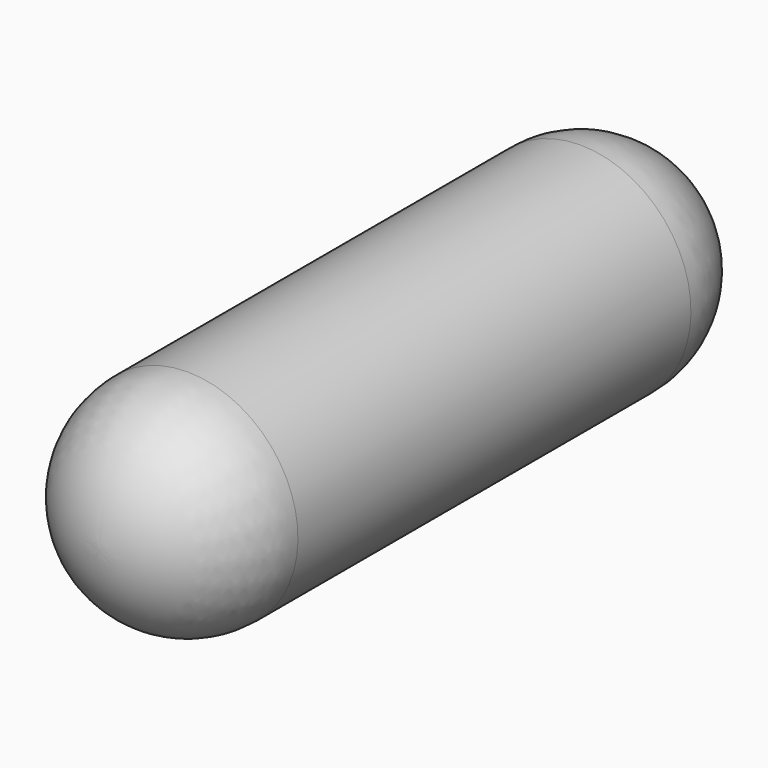
from build123d import *


with BuildPart() as f1:
    # F0 (on Right) → F1 (revolve)
    with BuildSketch(Plane.YZ):
        with BuildLine():
            Line((50, 22.5), (-50, 22.5))
            ThreePointArc((-50, 22.5), (-65.909903, 15.909903), (-72.5, 0))
            Line((-72.5, 0), (72.5, 0))
            ThreePointArc((72.5, 0), (65.909903, 15.909903), (50, 22.5))
        make_face()
    revolve(axis=Axis((0, 0, 0), (0, 1, 0)))


solid = f1.part
